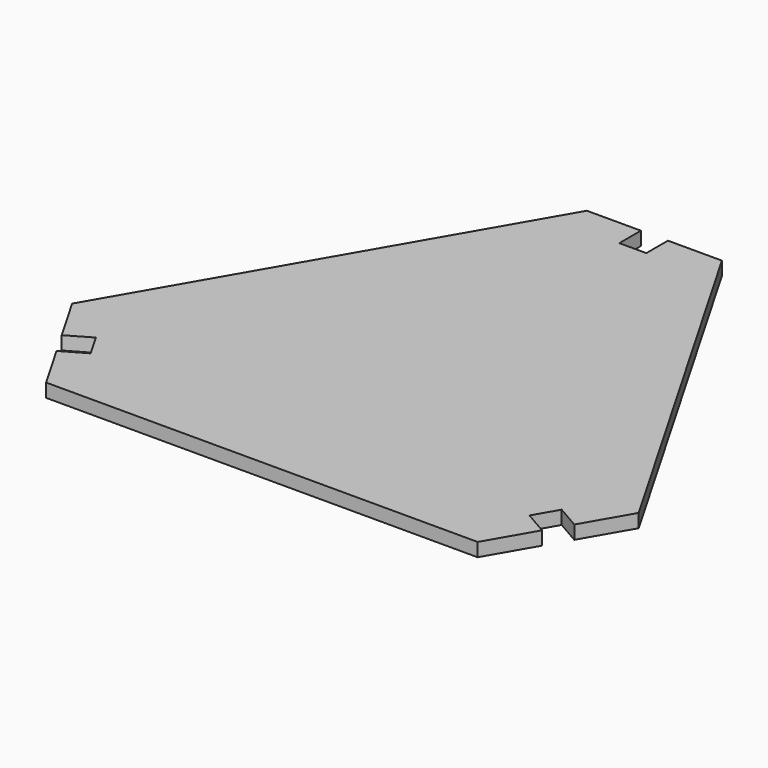
from build123d import *

# Parameters (mm, degrees)
F1_DEPTH = 10


with BuildPart() as f1:
    # F0 (on Top) → F1 (new body)
    with BuildSketch(Plane.XY):
        Polygon((-10, 213.39746), (-50, 213.39746), (-209.807621, -63.39746), (-189.807621, -98.038476), (-172.487113, -88.038476), (-167.487113, -96.69873), (-162.487113, -105.358984), (-179.807621, -115.358984), (-159.807621, -150), (159.807621, -150), (179.807621, -115.358984), (162.487113, -105.358984), (167.487113, -96.69873), (172.487113, -88.038476), (189.807621, -98.038476), (209.807621, -63.39746), (50, 213.39746), (10, 213.39746), (10, 193.39746), (0, 193.39746), (-10, 193.39746), align=None)
    extrude(amount=F1_DEPTH)


solid = f1.part
